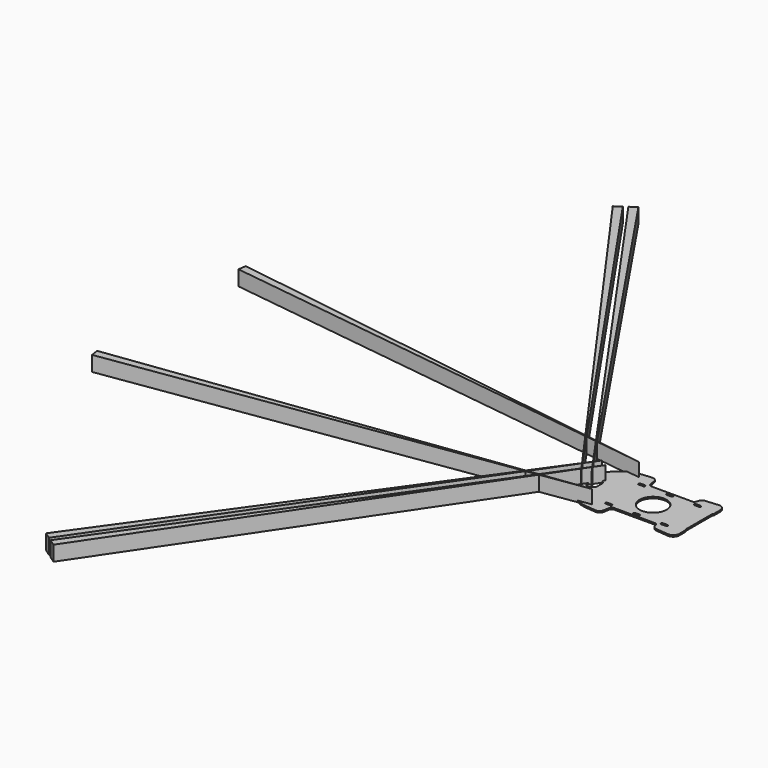
from build123d import *

# Parameters (mm, degrees)
PAD_DEPTH       = 1
SKETCH012_R     = 9
POCKET_DEPTH    = 1.001
POCKET001_DEPTH = 1.001
PAD003_DEPTH    = 10


with BuildPart() as part:
    # Sketch007 → Pad (new body)
    with BuildSketch(Plane.XY):
        with BuildLine():
            Line((13.5, 15.5), (-13.5, 15.5))
            ThreePointArc((-15.469616, 17.152704), (-14.785575, 15.967911), (-13.5, 15.5))
            Line((-15.469616, 17.152704), (-16.153704, 21.03236))
            ThreePointArc((-16.153704, 21.03236), (-17.281843, 22.891476), (-19.369594, 23.5))
            Line((-19.369594, 23.5), (-26.098892, 22.911263))
            ThreePointArc((-26.098892, 22.911263), (-32.808142, 21.113525), (-38.497913, 17.129504))
            Line((-40.313708, 15.313708), (-38.497913, 17.129504))
            ThreePointArc((-40.313708, 15.313708), (-43.782073, 10.122935), (-45, 4))
            Line((-45, 4), (-45, 0))
            Line((-45, 0), (30.5, 0))
            Line((30.5, 0), (30.5, 10.677124))
            ThreePointArc((30.75, 11.338562), (30.564586, 11.030678), (30.5, 10.677124))
            ThreePointArc((30.75, 11.338562), (30.935414, 11.646447), (31, 12))
            Line((31, 17.015221), (31, 12))
            ThreePointArc((31, 17.015221), (29.702361, 19.964331), (26.651377, 21))
            Line((18.276649, 20.267306), (26.651377, 21))
            ThreePointArc((18.276649, 20.267306), (16.511345, 19.490554), (15.583693, 17.799667))
            Line((15.583693, 17.799667), (15.469616, 17.152704))
            ThreePointArc((13.5, 15.5), (14.785575, 15.967911), (15.469616, 17.152704))
        make_face()
        with BuildLine():
            Line((-20, 13), (-17, 13))
            ThreePointArc((-17, 13), (-16.25, 13.75), (-17, 14.5))
            Line((-20, 14.5), (-17, 14.5))
            ThreePointArc((-20, 14.5), (-20.75, 13.75), (-20, 13))
        make_face(mode=Mode.SUBTRACT)
        with BuildLine():
            Line((-1.5, 13), (1.5, 13))
            ThreePointArc((1.5, 13), (2.25, 13.75), (1.5, 14.5))
            Line((-1.5, 14.5), (1.5, 14.5))
            ThreePointArc((-1.5, 14.5), (-2.25, 13.75), (-1.5, 13))
        make_face(mode=Mode.SUBTRACT)
        with BuildLine():
            Line((17, 13), (20, 13))
            ThreePointArc((20, 13), (20.75, 13.75), (20, 14.5))
            Line((17, 14.5), (20, 14.5))
            ThreePointArc((17, 14.5), (16.25, 13.75), (17, 13))
        make_face(mode=Mode.SUBTRACT)
    pad = extrude(amount=PAD_DEPTH)

    # Mirrored: Pad across Sketch007 H_Axis
    add(pad.mirror(Plane.ZX))

    # Sketch012 (on Face5 of Mirrored) → Pocket (cut, through all)
    with BuildSketch(Plane.XY.offset(1)):
        Circle(SKETCH012_R)
    extrude(amount=-POCKET_DEPTH, mode=Mode.SUBTRACT)

    # Sketch008 → Pocket001 (cut, through all)
    with BuildSketch(Plane.XY):
        with BuildLine():
            Line((-41.5, 2.732233), (-41.5, -2.732233))
            ThreePointArc((-41.5, -2.732233), (-39.956709, -5.041932), (-37.232233, -4.5))
            Line((-35.792893, -3.06066), (-37.232233, -4.5))
            ThreePointArc((-35.792893, -3.06066), (-35.57612, -2.736237), (-35.5, -2.353553))
            Line((-35.5, 2.353553), (-35.5, -2.353553))
            ThreePointArc((-35.5, 2.353553), (-35.57612, 2.736237), (-35.792893, 3.06066))
            Line((-37.232233, 4.5), (-35.792893, 3.06066))
            ThreePointArc((-37.232233, 4.5), (-39.956709, 5.041932), (-41.5, 2.732233))
        make_face()
    extrude(amount=POCKET001_DEPTH, mode=Mode.SUBTRACT)

    # Sketch → Pad003 (join)
    with BuildSketch(Plane.XY):
        Polygon((-40.913498, 8.863434), (-210.841839, -238.383837), (-215.131018, -235.380521), align=None)
        Polygon((-36.380804, 5.7482), (-208.460287, -240.006771), (-204.145063, -242.972542), align=None)
        Polygon((-25.08387, 19.530617), (-321.799927, 63.875129), (-322.528654, 58.689966), align=None)
    pad003 = extrude(amount=PAD003_DEPTH)

    # Mirrored001: Pad003 across Sketch H_Axis
    add(pad003.mirror(Plane.ZX))


solid = part.part
